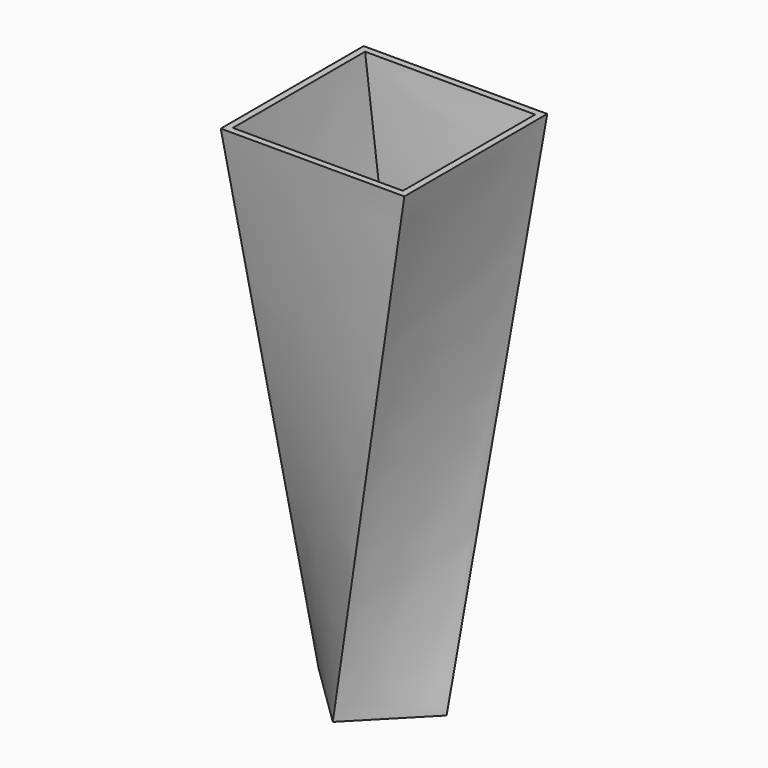
from build123d import *

# Parameters (mm, degrees)
F1_W = 69.838352
F1_H = 67.95083
F5_T = -2.54


with BuildPart() as f4:
    # F1 (on offset) → F4 section 0
    with BuildSketch(Plane.XY.offset(127)):
        Rectangle(F1_W, F1_H)
    # F3 (on offset) → F4 section 1
    with BuildSketch(Plane.XY.offset(-64.262)):
        Polygon((0, 23.29665), (-24.888797, 0), (0, -24.346344), (23.815714, 0), align=None)
    loft()

    # F5
    f5_openings = [f4.faces().sort_by_distance(p)[0] for p in [
        (0, 0, 127),
    ]]
    offset(amount=F5_T, openings=f5_openings)


solid = f4.part
